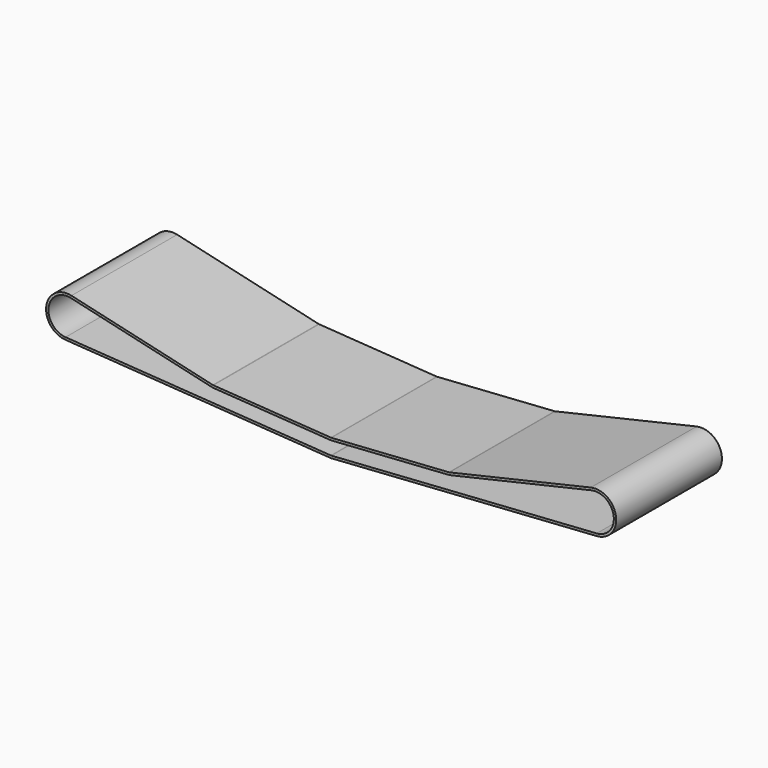
from build123d import *

# Parameters (mm, degrees)
F2_DEPTH = 228.6


with BuildPart() as f2:
    # F1 (on Front) → F2 (new body)
    with BuildSketch(Plane.XZ):
        with BuildLine():
            ThreePointArc((457.623696, -35.291849), (457.2, -35.306), (456.776304, -35.291849))
            Line((456.776304, -35.291849), (253.576304, -21.703283))
            ThreePointArc((253.576304, -21.703283), (253.070956, -21.649104), (252.571561, -21.554684))
            Line((252.571561, -21.554684), (8.056397, 34.89609))
            ThreePointArc((8.056397, 34.89609), (-35.428033, 5.243764), (-2.397632, -35.733653))
            Line((-2.397632, -35.733653), (456.502816, -66.524637))
            ThreePointArc((456.502816, -66.524637), (457.2, -66.548), (457.897184, -66.524637))
            Line((457.897184, -66.524637), (916.797632, -35.733653))
            ThreePointArc((916.797632, -35.733653), (949.828033, 5.243764), (906.343603, 34.89609))
            Line((906.343603, 34.89609), (661.828439, -21.554684))
            ThreePointArc((661.828439, -21.554684), (661.329044, -21.649104), (660.823696, -21.703283))
            Line((660.823696, -21.703283), (457.623696, -35.291849))
        make_face()
        with BuildLine():
            ThreePointArc((-2.12556, -31.67877), (-31.407831, 4.648727), (7.142196, 30.93625))
            Line((7.142196, 30.93625), (251.65736, -25.514524))
            ThreePointArc((251.65736, -25.514524), (252.476369, -25.669373), (253.305138, -25.758226))
            Line((253.305138, -25.758226), (456.505138, -39.346792))
            ThreePointArc((456.505138, -39.346792), (457.2, -39.37), (457.894862, -39.346792))
            Line((457.894862, -39.346792), (661.094862, -25.758226))
            ThreePointArc((661.094862, -25.758226), (661.923631, -25.669373), (662.74264, -25.514524))
            Line((662.74264, -25.514524), (907.257804, 30.93625))
            ThreePointArc((907.257804, 30.93625), (945.807831, 4.648727), (916.52556, -31.67877))
            Line((916.52556, -31.67877), (457.625112, -62.469754))
            ThreePointArc((457.625112, -62.469754), (457.2, -62.484), (456.774888, -62.469754))
            Line((456.774888, -62.469754), (-2.12556, -31.67877))
        make_face(mode=Mode.SUBTRACT)
    extrude(amount=F2_DEPTH)


solid = f2.part
